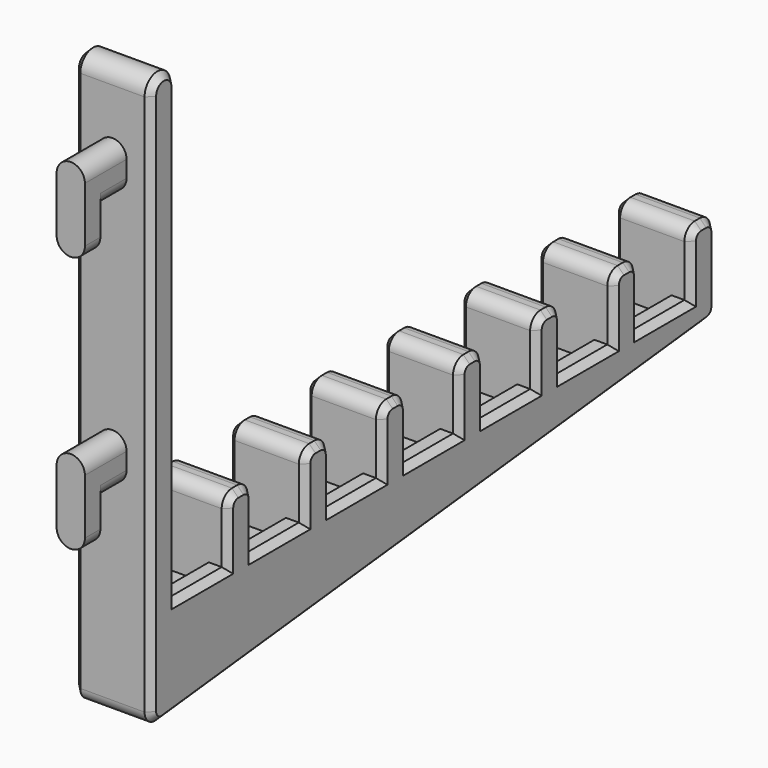
from build123d import *

# Parameters (mm, degrees)
SKETCH_W        = 12
SKETCH_H        = 77
PAD_DEPTH       = 5
PAD001_DEPTH    = 5.1
PAD002_DEPTH    = 3
SKETCH003_W     = 4
SKETCH003_H     = 105
SKETCH003_W_2   = 10
SKETCH003_H_2   = 5
PAD003_DEPTH    = 12
SKETCH004_W     = 6
SKETCH004_H     = 10
POCKET_DEPTH    = 3
POCKET001_DEPTH = 12.001
FILLET_R        = 2
PAD004_DEPTH    = 12
FILLET001_R     = 2
CHAMFER_SIZE    = 1


with BuildPart() as part:
    # Sketch → Pad (new body)
    with BuildSketch(Plane.XZ):
        with Locations((0, 38.5)):
            Rectangle(SKETCH_W, SKETCH_H)
    extrude(amount=PAD_DEPTH)

    # Sketch001 (on Face6 of Pad) → Pad001 (join)
    with BuildSketch(Plane.XZ.offset(5)):
        with BuildLine():
            Line((-2.2, 25.05), (-2.2, 22.45))
            ThreePointArc((-2.2, 22.45), (0, 20.25), (2.2, 22.45))
            Line((2.2, 25.05), (2.2, 22.45))
            ThreePointArc((2.2, 25.05), (0, 27.25), (-2.2, 25.05))
        make_face()
        with BuildLine():
            Line((-2.2, 65.05), (-2.2, 62.45))
            ThreePointArc((-2.2, 62.45), (0, 60.25), (2.2, 62.45))
            Line((2.2, 65.05), (2.2, 62.45))
            ThreePointArc((2.2, 65.05), (0, 67.25), (-2.2, 65.05))
        make_face()
    extrude(amount=PAD001_DEPTH)

    # Sketch002 (on Face16 of Pad001) → Pad002 (join)
    with BuildSketch(Plane.XZ.offset(10.1)):
        with BuildLine():
            Line((-2.2, 25.05), (-2.2, 16.45))
            ThreePointArc((-2.2, 16.45), (0, 14.25), (2.2, 16.45))
            Line((2.2, 25.05), (2.2, 16.45))
            ThreePointArc((2.2, 25.05), (0, 27.25), (-2.2, 25.05))
        make_face()
        with BuildLine():
            Line((-2.2, 65.05), (-2.2, 56.45))
            ThreePointArc((-2.2, 56.45), (0, 54.25), (2.2, 56.45))
            Line((2.2, 65.05), (2.2, 56.45))
            ThreePointArc((2.2, 65.05), (0, 67.25), (-2.2, 65.05))
        make_face()
    extrude(amount=PAD002_DEPTH)

    # Sketch003 (on Face6 of Pad002) → Pad003 (join)
    with BuildSketch(Plane(origin=(6, 0, 0), x_dir=(0, 0, 1), z_dir=(1, 0, 0))):
        with Locations((2, -52.5)):
            Rectangle(SKETCH003_W, SKETCH003_H)
        with Locations((9, -12.5)):
            Rectangle(SKETCH003_W_2, SKETCH003_H_2)
        with Locations((9, -27.5)):
            Rectangle(SKETCH003_W_2, SKETCH003_H_2)
        with Locations((9, -42.5)):
            Rectangle(SKETCH003_W_2, SKETCH003_H_2)
        with Locations((9, -57.5)):
            Rectangle(SKETCH003_W_2, SKETCH003_H_2)
        with Locations((9, -72.5)):
            Rectangle(SKETCH003_W_2, SKETCH003_H_2)
        with Locations((9, -87.5)):
            Rectangle(SKETCH003_W_2, SKETCH003_H_2)
        with Locations((9, -102.5)):
            Rectangle(SKETCH003_W_2, SKETCH003_H_2)
    extrude(amount=-PAD003_DEPTH)

    # Sketch004 (on Face30 of Pad003) → Pocket (cut)
    with BuildSketch(Plane(origin=(0, 0, 4), x_dir=(-1, 0, 0), z_dir=(0, 0, 1))):
        with Locations((0, -5)):
            Rectangle(SKETCH004_W, SKETCH004_H)
        with Locations((0, -20)):
            Rectangle(SKETCH004_W, SKETCH004_H)
        with Locations((0, -35)):
            Rectangle(SKETCH004_W, SKETCH004_H)
        with Locations((0, -50)):
            Rectangle(SKETCH004_W, SKETCH004_H)
        with Locations((0, -65)):
            Rectangle(SKETCH004_W, SKETCH004_H)
        with Locations((0, -80)):
            Rectangle(SKETCH004_W, SKETCH004_H)
        with Locations((0, -95)):
            Rectangle(SKETCH004_W, SKETCH004_H)
    extrude(amount=-POCKET_DEPTH, mode=Mode.SUBTRACT)

    # Sketch005 (on Face5 of Pocket) → Pocket001 (cut, through all)
    with BuildSketch(Plane(origin=(6, 0, 0), x_dir=(0, 0, 1), z_dir=(1, 0, 0))):
        with BuildLine():
            ThreePointArc((74.499999, 0), (77, 2.5), (74.5, 5))
            Line((74.5, 5), (77.1, 5))
            Line((77.1, 5), (77.099999, 0))
            Line((74.499999, 0), (77.099999, 0))
        make_face()
    extrude(amount=-POCKET001_DEPTH, mode=Mode.SUBTRACT)

    # Fillet
    fillet_edges = [part.edges().sort_by_distance(p)[0] for p in [
        (0, 105, 14),
        (0, 100, 14),
        (0, 90, 14),
        (0, 85, 14),
        (0, 75, 14),
        (0, 70, 14),
        (0, 60, 14),
        (0, 55, 14),
        (0, 45, 14),
        (0, 40, 14),
        (0, 30, 14),
        (0, 25, 14),
        (0, 15, 14),
        (0, 10, 14),
    ]]
    fillet(fillet_edges, radius=FILLET_R)

    # Sketch006 (on Face5 of Fillet) → Pad004 (join)
    with BuildSketch(Plane(origin=(6, 0, 0), x_dir=(0, 0, 1), z_dir=(1, 0, 0))):
        Polygon((-12, 5), (0, 5), (0, -105), align=None)
    extrude(amount=-PAD004_DEPTH)

    # Fillet001
    fillet001_edges = [part.edges().sort_by_distance(p)[0] for p in [
        (0, 105, 0),
        (0, -5, -12),
    ]]
    fillet(fillet001_edges, radius=FILLET001_R)

    # Chamfer
    chamfer_edges = [part.edges().sort_by_distance(p)[0] for p in [
        (6, -5, 32.365024),
        (6, -4.33533, -11.258877),
        (6, -4.267767, 76.267767),
        (6, 50.216895, -5.976339),
        (6, -0.732233, 76.267767),
        (6, 104.488924, 0.458354),
        (6, 0, 39.25),
        (6, 105, 6.896842),
        (6, 5, 4),
        (6, 104.414214, 13.414214),
        (6, 10, 8),
        (6, 102.5, 14),
        (6, 10.585786, 13.414214),
        (6, 100.585786, 13.414214),
        (6, 12.5, 14),
        (6, 100, 8),
        (6, 14.414214, 13.414214),
        (6, 95, 4),
        (6, 15, 8),
        (6, 90, 8),
        (6, 20, 4),
        (6, 89.414214, 13.414214),
        (6, 25, 8),
        (6, 87.5, 14),
        (6, 25.585786, 13.414214),
        (6, 85.585786, 13.414214),
        (6, 27.5, 14),
        (6, 85, 8),
        (6, 29.414214, 13.414214),
        (6, 80, 4),
        (6, 30, 8),
        (6, 75, 8),
        (6, 35, 4),
        (6, 74.414214, 13.414214),
        (6, 40, 8),
        (6, 72.5, 14),
        (6, 40.585786, 13.414214),
        (6, 70.585786, 13.414214),
        (6, 42.5, 14),
        (6, 70, 8),
        (6, 44.414214, 13.414214),
        (6, 65, 4),
        (6, 45, 8),
        (6, 60, 8),
        (6, 50, 4),
        (6, 59.414214, 13.414214),
        (6, 55, 8),
        (6, 57.5, 14),
        (6, 55.585786, 13.414214),
        (-6, 105, 6.896842),
        (-6, 104.488924, 0.458354),
        (-6, 104.414214, 13.414214),
        (-6, 50.216895, -5.976339),
        (-6, 102.5, 14),
        (-6, -4.33533, -11.258877),
        (-6, 100.585786, 13.414214),
        (-6, -5, 32.365024),
        (-6, 100, 8),
        (-6, -4.267767, 76.267767),
        (-6, 95, 4),
        (-6, -0.732233, 76.267767),
        (-6, 90, 8),
        (-6, 0, 39.25),
        (-6, 89.414214, 13.414214),
        (-6, 5, 4),
        (-6, 87.5, 14),
        (-6, 10, 8),
        (-6, 85.585786, 13.414214),
        (-6, 10.585786, 13.414214),
        (-6, 85, 8),
        (-6, 12.5, 14),
        (-6, 80, 4),
        (-6, 14.414214, 13.414214),
        (-6, 75, 8),
        (-6, 15, 8),
        (-6, 74.414214, 13.414214),
        (-6, 20, 4),
        (-6, 72.5, 14),
        (-6, 25, 8),
        (-6, 70.585786, 13.414214),
        (-6, 25.585786, 13.414214),
        (-6, 70, 8),
        (-6, 27.5, 14),
        (-6, 65, 4),
        (-6, 29.414214, 13.414214),
        (-6, 60, 8),
        (-6, 30, 8),
        (-6, 59.414214, 13.414214),
        (-6, 35, 4),
        (-6, 57.5, 14),
        (-6, 40, 8),
        (-6, 55.585786, 13.414214),
        (-6, 40.585786, 13.414214),
        (-6, 55, 8),
        (-6, 42.5, 14),
        (-6, 50, 4),
        (-6, 44.414214, 13.414214),
        (-6, 45, 8),
    ]]
    chamfer(chamfer_edges, length=CHAMFER_SIZE)


solid = part.part
